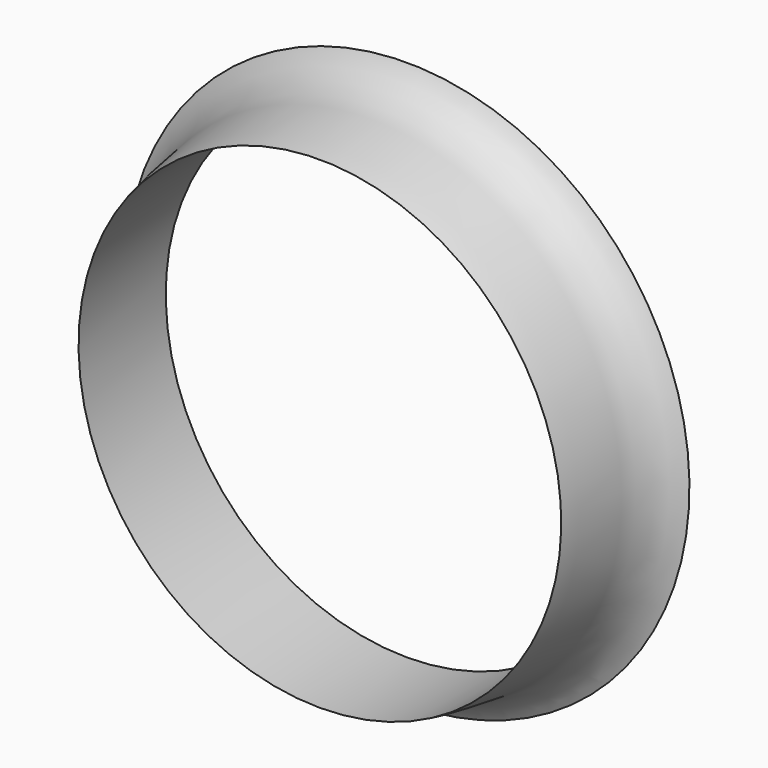
from build123d import *


with BuildPart() as f1:
    # F0 (on Right) → F1 (revolve)
    with BuildSketch(Plane.YZ):
        with BuildLine():
            Line((0, -103.295), (0, -88.295))
            Line((0, -88.295), (-39.8889370263, -88.295))
            add(Edge.make_bspline(
                [(-39.8889370263, -88.295), (-24.8549778066, -92.2730206986), (-6.912075998, -89.3689801081), (0, -103.295)],
                knots=[0, 0, 0, 0, 0.2394723711, 0.2394723711, 0.2394723711, 0.2394723711], degree=3))
        make_face()
    revolve(axis=Axis((0, -24.5797671378, 0), (0, -1, 0)))


solid = f1.part
